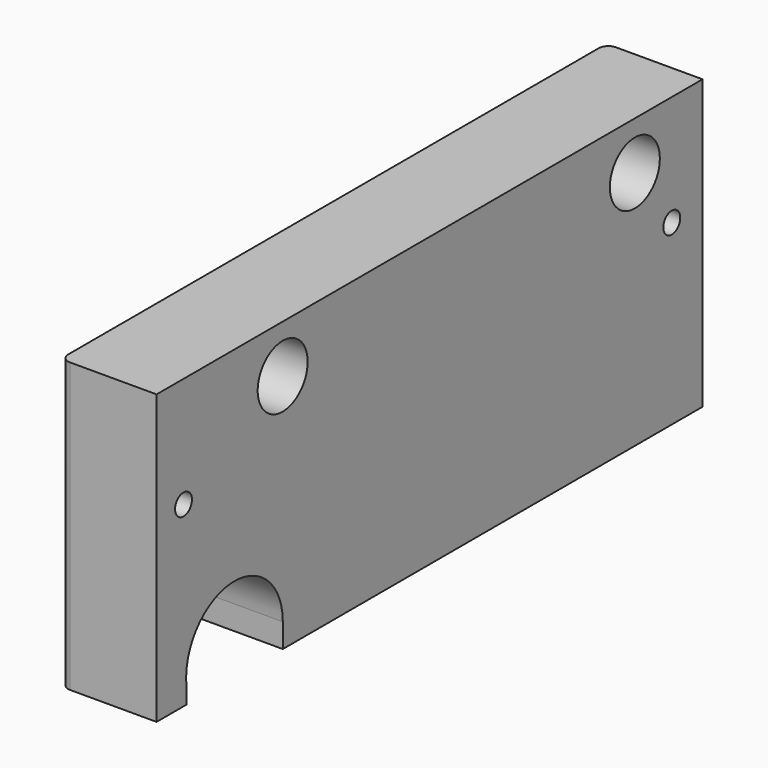
from build123d import *

# Parameters (mm, degrees)
F0_W           = 90.17
F0_H           = 38.1
F1_DEPTH       = 12.7
F2_D           = 2.794
F4_D           = 5.08
F4_CBORE_D     = 8.255
F4_CBORE_DEPTH = 6.35
F6_DEPTH       = 12.701
F8_D           = 2.794
F8_DEPTH       = 25.4
F8_TIP         = 0.8394022848
F9_R           = 1.27


with BuildPart() as f1:
    # F0 (on Right) → F1 (new body)
    with BuildSketch(Plane.YZ):
        with Locations((19.7381743398, -3.2925931737)):
            Rectangle(F0_W, F0_H)
    extrude(amount=F1_DEPTH)

    # F2 (through all)
    with Locations(Plane(origin=(0, 0, 0), x_dir=(0, 1, 0), z_dir=(-1, 0, 0))):
        with Locations((-20.9018256602, -1.1524068263), (59.7431743398, -1.1524068263)):
            Hole(F2_D / 2)

    # F4 (through all)
    with Locations(Plane.YZ.offset(12.7)):
        with Locations((-4.5188256602, 9.4074068263), (53.6471743398, 9.4074068263)):
            CounterBoreHole(F4_D / 2, F4_CBORE_D / 2, F4_CBORE_DEPTH)

    # F5 (on Right) → F6 (cut, through all)
    with BuildSketch(Plane.YZ):
        with BuildLine():
            ThreePointArc((-4.5006518298, -19.1675931737), (-12.3808319272, -11.1898662261), (-20.4548983074, -18.9713068193))
            ThreePointArc((-20.4548983074, -18.9713068193), (-20.4573256602, -19.1675931737), (-20.4548983074, -19.3638795281))
            Line((-20.4548983074, -19.3638795281), (-20.3756518298, -22.5674978264))
            Line((-20.3756518298, -22.5674978264), (-4.5006518298, -22.5674978264))
            Line((-4.5006518298, -22.5674978264), (-4.5006518298, -19.1675931737))
        make_face()
    extrude(amount=F6_DEPTH, mode=Mode.SUBTRACT)

    # F8
    with Locations(Plane(origin=(0, 0, -22.3425931737), x_dir=(1, 0, 0), z_dir=(0, 0, -1))):
        with Locations((7.62, -0.6881743398), (7.62, -56.5681743398)):
            Hole(F8_D / 2, depth=F8_DEPTH)
            with Locations((0, 0, -(F8_DEPTH + F8_TIP / 2))):  # 118° drill point
                Cone(0, F8_D / 2, F8_TIP, mode=Mode.SUBTRACT)

    # F9
    f9_edges = [f1.edges().sort_by_distance(p)[0] for p in [
        (0, -25.346826, -3.292593),
        (0, 64.823174, -3.292593),
    ]]
    fillet(f9_edges, radius=F9_R)


solid = f1.part
